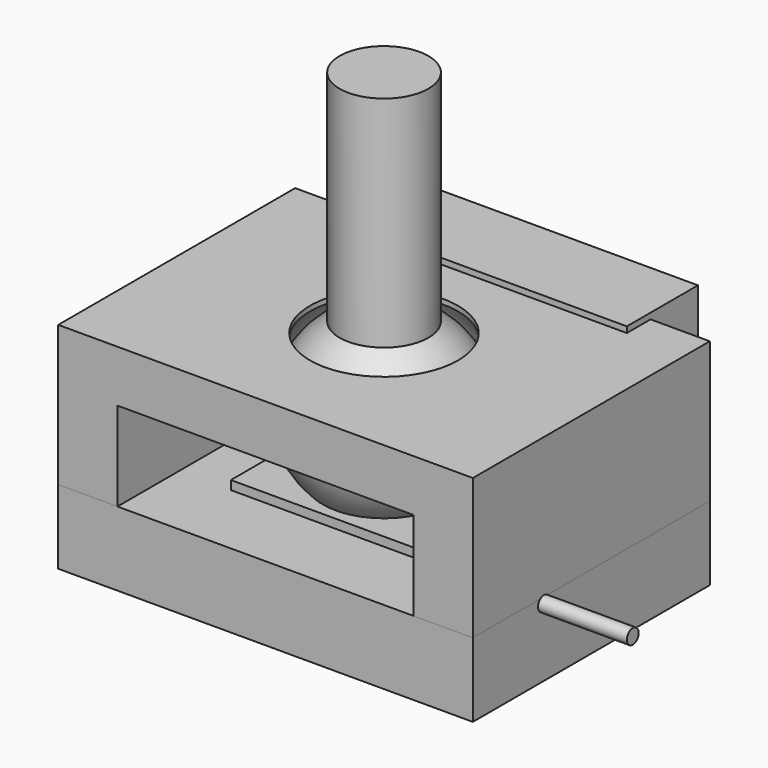
from build123d import *

# Parameters (mm, degrees)
CYLINDER002_R           = 0.25
CYLINDER002_DEPTH       = 10
CYLINDER002_PITCH_ANGLE = 90
CYLINDER001_R           = 0.25
CYLINDER001_DEPTH       = 10
CYLINDER001_PITCH_ANGLE = 90
BOX_W                   = 6.5
BOX_H                   = 4.8
BOX_DEPTH               = 1
BOX004_W                = 10
BOX004_H                = 3
BOX004_DEPTH            = 5
CYLINDER_R              = 1.5
CYLINDER_DEPTH          = 10
BOX005_W                = 21
BOX005_H                = 17
BOX005_DEPTH            = 8
CYLINDER005_R           = 2.5
CYLINDER005_DEPTH       = 10
CYLINDER004_R           = 0.25
CYLINDER004_DEPTH       = 10
CYLINDER004_PITCH_ANGLE = 90
CYLINDER003_R           = 0.25
CYLINDER003_DEPTH       = 10
CYLINDER003_PITCH_ANGLE = 90
BOX002_W                = 6.5
BOX002_H                = 4.8
BOX002_DEPTH            = 1
BOX003_W                = 10
BOX003_H                = 12
BOX003_DEPTH            = 3
BOX001_W                = 14
BOX001_H                = 10
BOX001_DEPTH            = 7.25
BOX006_W                = 21
BOX006_H                = 17
BOX006_DEPTH            = 12


with BuildPart() as cylinder002:
    # Cylinder002 → Cylinder002 (new body)
    with BuildSketch(Plane.XY):
        Circle(CYLINDER002_R)
    extrude(amount=CYLINDER002_DEPTH)


with BuildPart() as cylinder002_1:
    # Cylinder002 pitch: moved
    add(cylinder002.part.rotate(Axis((0, 0, 0), (0, 1, 0)), CYLINDER002_PITCH_ANGLE))


with BuildPart() as cylinder002_2:
    # Cylinder002 placement: moved
    add(cylinder002_1.part.moved(Location((0, -2, -3.7))))


with BuildPart() as fusion002:
    # Cylinder001 → Cylinder001 (new body)
    with BuildSketch(Plane.XY):
        Circle(CYLINDER001_R)
    extrude(amount=CYLINDER001_DEPTH)


with BuildPart() as fusion002_1:
    # Cylinder001 pitch: moved
    add(fusion002.part.rotate(Axis((0, 0, 0), (0, 1, 0)), CYLINDER001_PITCH_ANGLE))


with BuildPart() as fusion002_2:
    # Cylinder001 placement: moved
    add(fusion002_1.part.moved(Location((-11, 2, -3.7))))

    # Fusion002: union Cylinder002
    add(cylinder002_2.part)


with BuildPart() as switch:
    # Box → Box (new body)
    with BuildSketch(Plane(origin=(-3.25, -2.4, -4.2), x_dir=(1, 0, 0), z_dir=(0, 0, 1))):
        with Locations((3.25, 2.4)):
            Rectangle(BOX_W, BOX_H)
    extrude(amount=BOX_DEPTH)

    # Fusion003: union Fusion002
    add(fusion002_2.part)


with BuildPart() as cube004:
    # Box004 → Box004 (new body)
    with BuildSketch(Plane(origin=(-5, 4, -3.55), x_dir=(1, 0, 0), z_dir=(0, 0, 1))):
        with Locations((5, 1.5)):
            Rectangle(BOX004_W, BOX004_H)
    extrude(amount=BOX004_DEPTH)


with BuildPart() as cylinder:
    # Cylinder → Cylinder (new body)
    with BuildSketch(Plane.XY):
        Circle(CYLINDER_R)
    extrude(amount=CYLINDER_DEPTH)


with BuildPart() as ball_and_screw:
    # Sphere → Sphere (revolve)
    with BuildSketch(Plane.XZ):
        with BuildLine():
            ThreePointArc((0, -3), (3, 0), (0, 3))
            Line((0, 3), (0, -3))
        make_face()
    revolve(axis=Axis((0, 0, 0), (0, 0, 1)))

    # Fusion005: union Cylinder
    add(cylinder.part)


with BuildPart() as ball_and_screw_1:
    # Fusion005 placement: moved
    add(ball_and_screw.part.moved(Location((0, 0, -1))))


with BuildPart() as cube005:
    # Box005 → Box005 (new body)
    with BuildSketch(Plane(origin=(-9, -7, -3.5), x_dir=(1, 0, 0), z_dir=(0, 0, 1))):
        with Locations((10.5, 8.5)):
            Rectangle(BOX005_W, BOX005_H)
    extrude(amount=BOX005_DEPTH)


with BuildPart() as cylinder005:
    # Cylinder005 → Cylinder005 (new body)
    with BuildSketch(Plane.XY.offset(0.5)):
        Circle(CYLINDER005_R)
    extrude(amount=CYLINDER005_DEPTH)


with BuildPart() as fusion004:
    # Sphere001 → Sphere001 (revolve)
    with BuildSketch(Plane(origin=(0, 0, -0.75), x_dir=(1, 0, 0), z_dir=(0, -1, 0))):
        with BuildLine():
            ThreePointArc((0, -3.1), (3.1, 0), (0, 3.1))
            Line((0, 3.1), (0, -3.1))
        make_face()
    revolve(axis=Axis((0, 0, -0.75), (0, 0, 1)))

    # Fusion004: union Cylinder005
    add(cylinder005.part)


with BuildPart() as cylinder004:
    # Cylinder004 → Cylinder004 (new body)
    with BuildSketch(Plane.XY):
        Circle(CYLINDER004_R)
    extrude(amount=CYLINDER004_DEPTH)


with BuildPart() as cylinder004_1:
    # Cylinder004 pitch: moved
    add(cylinder004.part.rotate(Axis((0, 0, 0), (0, 1, 0)), CYLINDER004_PITCH_ANGLE))


with BuildPart() as cylinder004_2:
    # Cylinder004 placement: moved
    add(cylinder004_1.part.moved(Location((0, -2, -3.7))))


with BuildPart() as fusion:
    # Cylinder003 → Cylinder003 (new body)
    with BuildSketch(Plane.XY):
        Circle(CYLINDER003_R)
    extrude(amount=CYLINDER003_DEPTH)


with BuildPart() as fusion_1:
    # Cylinder003 pitch: moved
    add(fusion.part.rotate(Axis((0, 0, 0), (0, 1, 0)), CYLINDER003_PITCH_ANGLE))


with BuildPart() as fusion_2:
    # Cylinder003 placement: moved
    add(fusion_1.part.moved(Location((-11, 2, -3.7))))

    # Fusion: union Cylinder004
    add(cylinder004_2.part)


with BuildPart() as fusion001:
    # Box002 → Box002 (new body)
    with BuildSketch(Plane(origin=(-3.25, -2.4, -4.2), x_dir=(1, 0, 0), z_dir=(0, 0, 1))):
        with Locations((3.25, 2.4)):
            Rectangle(BOX002_W, BOX002_H)
    extrude(amount=BOX002_DEPTH)

    # Fusion001: union Fusion
    add(fusion_2.part)


with BuildPart() as cube003:
    # Box003 → Box003 (new body)
    with BuildSketch(Plane(origin=(-5, -6, -3.5), x_dir=(1, 0, 0), z_dir=(0, 0, 1))):
        with Locations((5, 6)):
            Rectangle(BOX003_W, BOX003_H)
    extrude(amount=BOX003_DEPTH)


with BuildPart() as cut001:
    # Box001 → Box001 (new body)
    with BuildSketch(Plane(origin=(-7, -5, -6), x_dir=(1, 0, 0), z_dir=(0, 0, 1))):
        with Locations((7, 5)):
            Rectangle(BOX001_W, BOX001_H)
    extrude(amount=BOX001_DEPTH)

    # Cut: cut Cube003
    add(cube003.part, mode=Mode.SUBTRACT)

    # Cut001: cut Fusion001
    add(fusion001.part, mode=Mode.SUBTRACT)


with BuildPart() as bottom_switch_holder:
    # Cut003 base: copy of Cut001
    add(cut001.part)

    # Cut003: cut Fusion004
    add(fusion004.part, mode=Mode.SUBTRACT)

    # Cut004: cut Cube005
    add(cube005.part, mode=Mode.SUBTRACT)


with BuildPart() as cube006:
    # Box006 → Box006 (new body)
    with BuildSketch(Plane(origin=(-9, -7, -3.5), x_dir=(1, 0, 0), z_dir=(0, 0, 1))):
        with Locations((10.5, 8.5)):
            Rectangle(BOX006_W, BOX006_H)
    extrude(amount=BOX006_DEPTH)


with BuildPart() as ball_and_screw_holder:
    # Cut002 base: copy of Cut001
    add(cut001.part)

    # Cut002: cut Fusion004
    add(fusion004.part, mode=Mode.SUBTRACT)

    # Common: intersect Cube006
    add(cube006.part, mode=Mode.INTERSECT)


solid = Compound([switch.part, cube004.part, ball_and_screw_1.part, bottom_switch_holder.part, ball_and_screw_holder.part])
